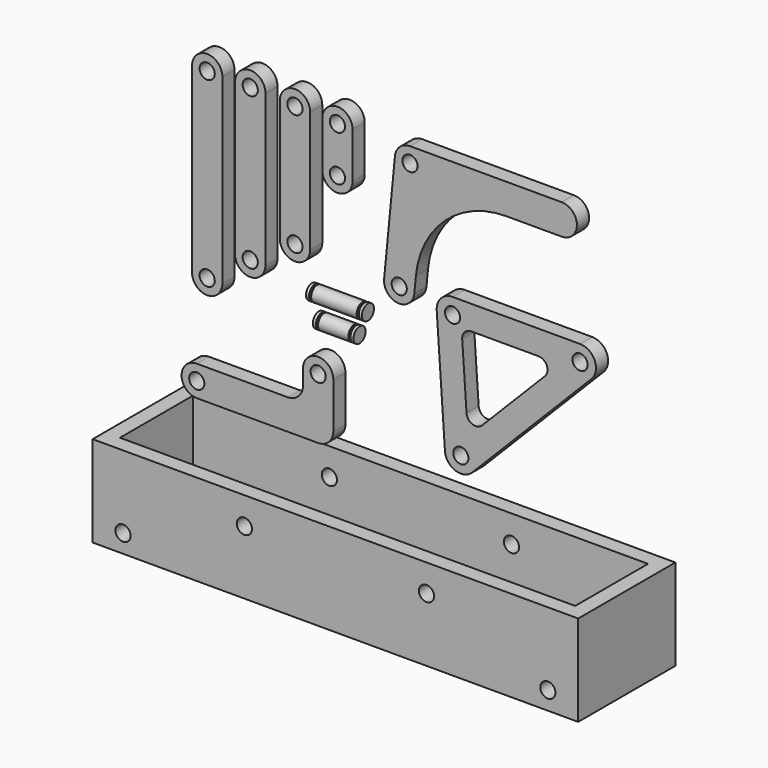
from build123d import *

# Parameters (mm, degrees)
F2_R      = 2.5
F3_DEPTH  = 2.5
F4_R      = 2.5
F5_DEPTH  = 2.5
F6_R      = 2.5
F7_DEPTH  = 2.5
F8_R      = 2.5
F9_DEPTH  = 2.5
F10_R     = 2.5
F11_DEPTH = 2.5
F12_R     = 2.5
F13_DEPTH = 2.5
F18_R     = 2.5
F19_DEPTH = 2.5
F20_W     = 160
F20_H     = 30
F21_DEPTH = 20
F22_T     = -5
F23_R     = 2.5
F24_DEPTH = 40


with BuildPart() as f3:
    # F2 (on Front) → F3 (new body, symmetric)
    with BuildSketch(Plane.XZ):
        with BuildLine():
            ThreePointArc((-18.3457694519, 51.2248277664), (-13.3457694519, 46.2248277664), (-8.3457694519, 51.2248277664))
            Line((-8.3457694519, 51.2248277664), (-8.3457694519, 66.2248277664))
            ThreePointArc((-8.3457694519, 66.2248277664), (-13.3457694519, 71.2248277664), (-18.3457694519, 66.2248277664))
            Line((-18.3457694519, 66.2248277664), (-18.3457694519, 51.2248277664))
        make_face()
        with Locations((-13.3457694519, 51.2248277664)):
            Circle(F2_R, mode=Mode.SUBTRACT)
        with Locations((-13.3457694519, 66.2248277664)):
            Circle(F2_R, mode=Mode.SUBTRACT)
    extrude(amount=F3_DEPTH, both=True)


with BuildPart() as f5:
    # F4 (on Front) → F5 (new body, symmetric)
    with BuildSketch(Plane.XZ):
        with BuildLine():
            ThreePointArc((-22.3385662585, 66.7787333578), (-27.3385662585, 71.7787333578), (-32.3385662585, 66.7787333578))
            Line((-32.3385662585, 66.7787333578), (-32.3385662585, 26.7787333578))
            ThreePointArc((-32.3385662585, 26.7787333578), (-27.3385662585, 21.7787333578), (-22.3385662585, 26.7787333578))
            Line((-22.3385662585, 26.7787333578), (-22.3385662585, 66.7787333578))
        make_face()
        with Locations((-27.3385662585, 26.7787333578)):
            Circle(F4_R, mode=Mode.SUBTRACT)
        with Locations((-27.3385662585, 66.7787333578)):
            Circle(F4_R, mode=Mode.SUBTRACT)
    extrude(amount=F5_DEPTH, both=True)


with BuildPart() as f7:
    # F6 (on Front) → F7 (new body, symmetric)
    with BuildSketch(Plane.XZ):
        with BuildLine():
            ThreePointArc((-37.0808680356, 67.4481645226), (-42.0808680356, 72.4481645226), (-47.0808680356, 67.4481645226))
            Line((-47.0808680356, 67.4481645226), (-47.0808680356, 17.4481645226))
            ThreePointArc((-47.0808680356, 17.4481645226), (-42.0808680356, 12.4481645226), (-37.0808680356, 17.4481645226))
            Line((-37.0808680356, 17.4481645226), (-37.0808680356, 67.4481645226))
        make_face()
        with Locations((-42.0808680356, 17.4481645226)):
            Circle(F6_R, mode=Mode.SUBTRACT)
        with Locations((-42.0808680356, 67.4481645226)):
            Circle(F6_R, mode=Mode.SUBTRACT)
    extrude(amount=F7_DEPTH, both=True)


with BuildPart() as f9:
    # F8 (on Front) → F9 (new body, symmetric)
    with BuildSketch(Plane.XZ):
        with BuildLine():
            ThreePointArc((-51.2633313239, 67.5577609241), (-56.2633313239, 72.5577609241), (-61.2633313239, 67.5577609241))
            Line((-61.2633313239, 67.5577609241), (-61.2633313239, 7.5577609241))
            ThreePointArc((-61.2633313239, 7.5577609241), (-56.2633313239, 2.5577609241), (-51.2633313239, 7.5577609241))
            Line((-51.2633313239, 7.5577609241), (-51.2633313239, 67.5577609241))
        make_face()
        with Locations((-56.2633313239, 7.5577609241)):
            Circle(F8_R, mode=Mode.SUBTRACT)
        with Locations((-56.2633313239, 67.5577609241)):
            Circle(F8_R, mode=Mode.SUBTRACT)
    extrude(amount=F9_DEPTH, both=True)


with BuildPart() as f11:
    # F10 (on Front) → F11 (new body, symmetric)
    with BuildSketch(Plane.XZ):
        with BuildLine():
            ThreePointArc((60.5742862523, 57.5499981642), (65.5742862523, 62.5499981642), (60.5742862523, 67.5499981642))
            Line((60.5742862523, 67.5499981642), (10.5742862523, 67.5499981642))
            ThreePointArc((10.5742862523, 67.5499981642), (7.2131410164, 66.2517143476), (5.5974839664, 63.0310792453))
            Line((5.5974839664, 63.0310792453), (2.0374839664, 26.2027423292))
            ThreePointArc((2.0374839664, 26.2027423292), (6.5332051713, 20.7448589622), (11.9910885383, 25.2405801671))
            Line((11.9910885383, 25.2405801671), (12.4933490667, 30.4364846507))
            ThreePointArc((12.4933490667, 30.4364846507), (22.1872913666, 49.7602952648), (42.3541627824, 57.5499981642))
            Line((42.3541627824, 57.5499981642), (60.5742862523, 57.5499981642))
        make_face()
        with Locations((7.0142862523, 25.7216612482)):
            Circle(F10_R, mode=Mode.SUBTRACT)
        with Locations((10.5742862523, 62.5499981642)):
            Circle(F10_R, mode=Mode.SUBTRACT)
    extrude(amount=F11_DEPTH, both=True)


with BuildPart() as f13:
    # F12 (on Front) → F13 (new body, symmetric)
    with BuildSketch(Plane.XZ):
        with BuildLine():
            ThreePointArc((24.6049569845, 28.3832850517), (20.7688556237, 26.7174712888), (19.3671883601, 22.7771745962))
            Line((19.3671883601, 22.7771745962), (22.0814740744, -17.130627311))
            ThreePointArc((22.0814740744, -17.130627311), (25.4953402609, -21.6972418338), (31.060506002, -20.4573302187))
            Line((31.060506002, -20.4573302187), (70.3462202877, 19.4504716885))
            ThreePointArc((70.3462202877, 19.4504716885), (71.4472757908, 25.1614878395), (66.6049569845, 28.3832850517))
            Line((66.6049569845, 28.3832850517), (24.6049569845, 28.3832850517))
        make_face()
        with Locations((27.3192426988, -16.7743861784)):
            Circle(F12_R, mode=Mode.SUBTRACT)
        with BuildLine():
            ThreePointArc((27.7663757955, 17.1797136232), (28.5673484545, 19.4313677789), (30.7594609386, 20.3832850517))
            Line((30.7594609386, 20.3832850517), (52.8756789332, 20.3832850517))
            ThreePointArc((52.8756789332, 20.3832850517), (55.6427871268, 18.5422122474), (55.0135968925, 15.278693215))
            Line((55.0135968925, 15.278693215), (34.3266582921, -5.7358221818))
            ThreePointArc((34.3266582921, -5.7358221818), (31.1464844256, -6.4443607409), (29.1956551897, -3.8348017736))
            Line((29.1956551897, -3.8348017736), (27.7663757955, 17.1797136232))
        make_face(mode=Mode.SUBTRACT)
        with Locations((24.6049569845, 23.1334157288)):
            Circle(F12_R, mode=Mode.SUBTRACT)
        with Locations((66.6049569845, 23.1334157288)):
            Circle(F12_R, mode=Mode.SUBTRACT)
    extrude(amount=F13_DEPTH, both=True)


with BuildPart() as f15:
    # F14 (on Front) → F15 (revolve)
    with BuildSketch(Plane.XZ):
        Polygon((-21.442672649, 8.2208053768), (-21.442672649, 5.7208053768), (-8.042672649, 5.7208053768), (-8.042672649, 8.2208053768), (-9.042672649, 8.2208053768), (-9.042672649, 7.7208053768), (-9.742672649, 7.7208053768), (-9.742672649, 8.2208053768), (-19.742672649, 8.2208053768), (-19.742672649, 7.7208053768), (-20.442672649, 7.7208053768), (-20.442672649, 8.2208053768), align=None)
    revolve(axis=Axis((-14.742672649, 0, 5.7208053768), (-1, 0, 0)))


with BuildPart() as f17:
    # F16 (on Front) → F17 (revolve)
    with BuildSketch(Plane.XZ):
        Polygon((-22.6991458215, 15.6926294416), (-23.6991458215, 15.6926294416), (-23.6991458215, 13.1926294416), (-5.2991458215, 13.1926294416), (-5.2991458215, 15.6926294416), (-6.2991458215, 15.6926294416), (-6.2991458215, 15.1926294416), (-6.9991458215, 15.1926294416), (-6.9991458215, 15.6926294416), (-21.9991458215, 15.6926294416), (-21.9991458215, 15.1926294416), (-22.6991458215, 15.1926294416), align=None)
    revolve(axis=Axis((-14.4991458215, 0, 13.1926294416), (1, 0, 0)))


with BuildPart() as f19:
    # F18 (on Front) → F19 (new body, symmetric)
    with BuildSketch(Plane.XZ):
        with BuildLine():
            Line((-29.7006900609, -18.3994043618), (-59.7006900609, -18.3994043618))
            ThreePointArc((-59.7006900609, -18.3994043618), (-64.7006900609, -23.3994043618), (-59.7006900609, -28.3994043618))
            Line((-59.7006900609, -28.3994043618), (-19.7006900609, -28.3994043618))
            ThreePointArc((-19.7006900609, -28.3994043618), (-16.1651561549, -26.9349382678), (-14.7006900609, -23.3994043618))
            Line((-14.7006900609, -23.3994043618), (-14.7006900609, -8.3994043618))
            ThreePointArc((-14.7006900609, -8.3994043618), (-19.7006900609, -3.3994043618), (-24.7006900609, -8.3994043618))
            Line((-24.7006900609, -8.3994043618), (-24.7006900609, -13.3994043618))
            ThreePointArc((-24.7006900609, -13.3994043618), (-26.1651561549, -16.9349382678), (-29.7006900609, -18.3994043618))
        make_face()
        with Locations((-59.7006900609, -23.3994043618)):
            Circle(F18_R, mode=Mode.SUBTRACT)
        with Locations((-19.7006900609, -8.3994043618)):
            Circle(F18_R, mode=Mode.SUBTRACT)
    extrude(amount=F19_DEPTH, both=True)


with BuildPart() as f21:
    # F20 (on Front) → F21 (new body, symmetric)
    with BuildSketch(Plane.XZ):
        with Locations((0, -54.7858035564)):
            Rectangle(F20_W, F20_H)
    extrude(amount=F21_DEPTH, both=True)

    # F22
    f22_openings = [f21.faces().sort_by_distance(p)[0] for p in [
        (0, 0, -39.785804),
        (0, 0, -69.785804),
    ]]
    offset(amount=F22_T, openings=f22_openings)

    # F23 (on face) → F24 (cut, through all)
    with BuildSketch(Plane.XZ.offset(20)):
        with Locations((-70, -63.7858035564)):
            Circle(F23_R)
        with Locations((-30, -48.7858035564)):
            Circle(F23_R)
        with Locations((30, -48.7858035564)):
            Circle(F23_R)
        with Locations((70, -63.7858035564)):
            Circle(F23_R)
    extrude(amount=-F24_DEPTH, mode=Mode.SUBTRACT)


solid = Compound([f3.part, f5.part, f7.part, f9.part, f11.part, f13.part, f15.part, f17.part, f19.part, f21.part])
